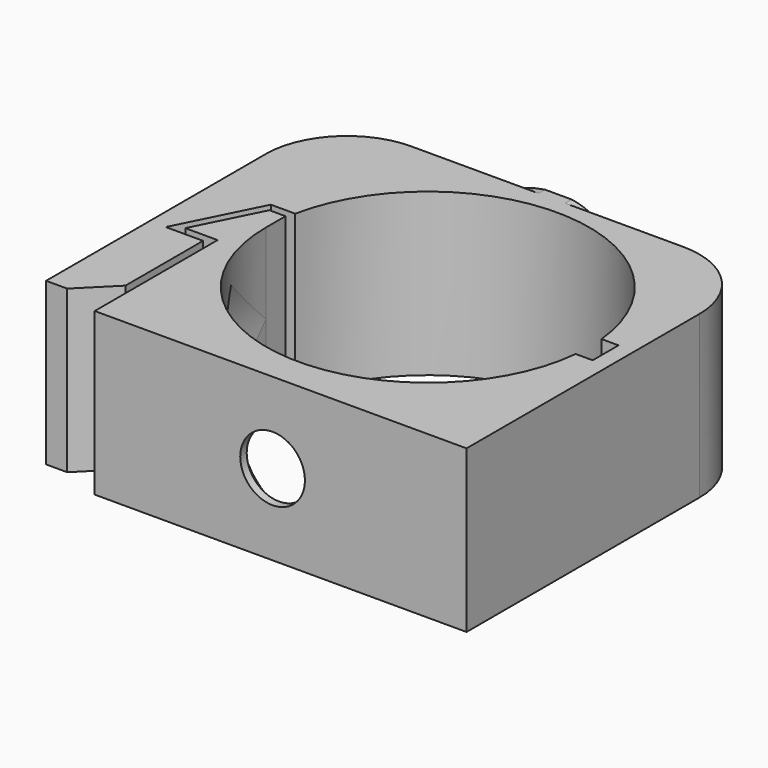
from build123d import *

# Parameters (mm, degrees)
F1_DEPTH = 5
F4_SIZE  = 2
F5_R     = 5
F6_R     = 5
F8_DEPTH = 0.5


with BuildPart() as f1:
    # F0 (on Top) → F1 (new body, symmetric)
    with BuildSketch(Plane.XY):
        with BuildLine():
            ThreePointArc((9.9498743711, -1), (-0.5006277506, -9.9874607311), (-10, 0))
            Line((-10, 0), (-10, 1.5))
            Line((-10, 1.5), (-11, 1.5))
            Line((-11, 1.5), (-13, -2.5))
            Line((-13, -2.5), (-11, -2.5))
            Line((-11, -2.5), (-11, -12))
            Line((-11, -12), (12, -12))
            Line((12, -12), (12, 11))
            Line((12, 11), (-14.8090169944, 11))
            Line((-14.8090169944, 11), (-14.8090169944, -11))
            Line((-14.8090169944, -11), (-11.5, -11))
            Line((-11.5, -11), (-11.5, -3))
            Line((-11.5, -3), (-13.8090169944, -3))
            Line((-13.8090169944, -3), (-11.3090169944, 2))
            Line((-11.3090169944, 2), (-9.7979589711, 2))
            ThreePointArc((-9.7979589711, 2), (0.5057366629, 9.9872033337), (9.9498743711, 1))
            Line((9.9498743711, 1), (11, 1))
            Line((11, 1), (11, -1))
            Line((11, -1), (9.9498743711, -1))
        make_face()
    extrude(amount=F1_DEPTH, both=True)

    # F2 (on Top) → F3 (revolve, cut)
    with BuildSketch(Plane.XY):
        Polygon((0, 0), (-10, 0), (-10, -3.5), (-2, -11.5), (-2, -12), (0, -12), align=None)
    revolve(axis=Axis((0, -5.25, 0), (0, -1, 0)), mode=Mode.SUBTRACT)

    # F4
    f4_edges = [f1.edges().sort_by_distance(p)[0] for p in [
        (-11.5, -11, 0),
    ]]
    chamfer(f4_edges, length=F4_SIZE)

    # F5
    f5_edges = [f1.edges().sort_by_distance(p)[0] for p in [
        (12, 11, 0),
    ]]
    fillet(f5_edges, radius=F5_R)

    # F6
    f6_edges = [f1.edges().sort_by_distance(p)[0] for p in [
        (-14.809017, 11, 0),
    ]]
    fillet(f6_edges, radius=F6_R)

    # F7 (on face) → F8 (join)
    with BuildSketch(Plane(origin=(0, 11, 0), x_dir=(-1, 0, 0), z_dir=(0, 1, 0))):
        with BuildLine():
            add(Edge.make_bspline(
                [(4.1006944444, -2.24609375), (4.1006944444, -3.5894097222), (3.1338975694, -4.3630642361)],
                knots=[0, 0, 0, 1, 1, 1], degree=2))
            add(Edge.make_bspline(
                [(3.5852864583, -0.6087239583), (4.1006944444, -1.2760416667), (4.1006944444, -2.24609375)],
                knots=[0, 0, 0, 1, 1, 1], degree=2))
            add(Edge.make_bspline(
                [(1.6788194444, 0.7248263889), (3.0698784722, 0.05859375), (3.5852864583, -0.6087239583)],
                knots=[0, 0, 0, 1, 1, 1], degree=2))
            add(Edge.make_bspline(
                [(0.3474392361, 1.4192708333), (0.6284722222, 1.2261284722), (1.6788194444, 0.7248263889)],
                knots=[0, 0, 0, 1, 1, 1], degree=2))
            add(Edge.make_bspline(
                [(-0.0627170139, 1.8196614583), (0.06640625, 1.6124131944), (0.3474392361, 1.4192708333)],
                knots=[0, 0, 0, 1, 1, 1], degree=2))
            add(Edge.make_bspline(
                [(-0.1918402778, 2.3046875), (-0.1918402778, 2.0269097222), (-0.0627170139, 1.8196614583)],
                knots=[0, 0, 0, 1, 1, 1], degree=2))
            add(Edge.make_bspline(
                [(0.1271701389, 3.0295138889), (-0.1918402778, 2.7517361111), (-0.1918402778, 2.3046875)],
                knots=[0, 0, 0, 1, 1, 1], degree=2))
            add(Edge.make_bspline(
                [(1.04296875, 3.3072916667), (0.4461805556, 3.3072916667), (0.1271701389, 3.0295138889)],
                knots=[0, 0, 0, 1, 1, 1], degree=2))
            add(Edge.make_bspline(
                [(2.0629340278, 3.1781684028), (1.5442708333, 3.3072916667), (1.04296875, 3.3072916667)],
                knots=[0, 0, 0, 1, 1, 1], degree=2))
            add(Edge.make_bspline(
                [(3.3758680556, 2.7235243056), (2.5815972222, 3.0490451389), (2.0629340278, 3.1781684028)],
                knots=[0, 0, 0, 1, 1, 1], degree=2))
            Line((3.3758680556, 2.7235243056), (4.0529513889, 4.3598090278))
            add(Edge.make_bspline(
                [(2.5848524306, 4.8741319444), (3.2868923611, 4.6918402778), (4.0529513889, 4.3598090278)],
                knots=[0, 0, 0, 1, 1, 1], degree=2))
            add(Edge.make_bspline(
                [(1.9480484116, 5), (2.2733914608, 4.9550058902), (2.5848524306, 4.8741319444)],
                knots=[0.5563486403, 0.5563486403, 0.5563486403, 1, 1, 1], degree=2))
            Line((1.9480484116, 5), (0.2994075141, 5))
            add(Edge.make_bspline(
                [(-1.3550347222, 4.3044704861), (-0.707430669, 4.8504432463), (0.2994075141, 5)],
                knots=[0, 0, 0, 0.7260728655, 0.7260728655, 0.7260728655], degree=2))
            add(Edge.make_bspline(
                [(-2.2469618056, 2.2352430556), (-2.2469618056, 3.5525173611), (-1.3550347222, 4.3044704861)],
                knots=[0, 0, 0, 1, 1, 1], degree=2))
            add(Edge.make_bspline(
                [(-1.9756944444, 1.015625), (-2.2469618056, 1.5386284722), (-2.2469618056, 2.2352430556)],
                knots=[0, 0, 0, 1, 1, 1], degree=2))
            add(Edge.make_bspline(
                [(-1.2497829861, 0.0998263889), (-1.7044270833, 0.4926215278), (-1.9756944444, 1.015625)],
                knots=[0, 0, 0, 1, 1, 1], degree=2))
            add(Edge.make_bspline(
                [(0.1119791667, -0.7204861111), (-0.7951388889, -0.29296875), (-1.2497829861, 0.0998263889)],
                knots=[0, 0, 0, 1, 1, 1], degree=2))
            add(Edge.make_bspline(
                [(1.3977864583, -1.3921440972), (1.08203125, -1.1827256944), (0.1119791667, -0.7204861111)],
                knots=[0, 0, 0, 1, 1, 1], degree=2))
            add(Edge.make_bspline(
                [(1.8763020833, -1.8294270833), (1.7135416667, -1.6015625), (1.3977864583, -1.3921440972)],
                knots=[0, 0, 0, 1, 1, 1], degree=2))
            add(Edge.make_bspline(
                [(2.0390625, -2.3480902778), (2.0390625, -2.0572916667), (1.8763020833, -1.8294270833)],
                knots=[0, 0, 0, 1, 1, 1], degree=2))
            add(Edge.make_bspline(
                [(1.6690538194, -3.134765625), (2.0390625, -2.87109375), (2.0390625, -2.3480902778)],
                knots=[0, 0, 0, 1, 1, 1], degree=2))
            add(Edge.make_bspline(
                [(0.6089409722, -3.3984375), (1.2990451389, -3.3984375), (1.6690538194, -3.134765625)],
                knots=[0, 0, 0, 1, 1, 1], degree=2))
            add(Edge.make_bspline(
                [(-0.6638454861, -3.2161458333), (0.0316840278, -3.3984375), (0.6089409722, -3.3984375)],
                knots=[0, 0, 0, 1, 1, 1], degree=2))
            add(Edge.make_bspline(
                [(-2.3619791667, -2.5846354167), (-1.359375, -3.0338541667), (-0.6638454861, -3.2161458333)],
                knots=[0, 0, 0, 1, 1, 1], degree=2))
            Line((-2.3619791667, -2.5846354167), (-2.3619791667, -4.5377604167))
            add(Edge.make_bspline(
                [(-0.987512741, -5), (-1.7250538132, -4.8505564977), (-2.3619791667, -4.5377604167)],
                knots=[0.477766543, 0.477766543, 0.477766543, 1, 1, 1], degree=2))
            Line((-0.987512741, -5), (1.7597890221, -5))
            add(Edge.make_bspline(
                [(3.1338975694, -4.3630642361), (2.5735213253, -4.8114910174), (1.7597890221, -5)],
                knots=[0, 0, 0, 0.5796214889, 0.5796214889, 0.5796214889], degree=2))
        make_face()
    extrude(amount=F8_DEPTH)


solid = f1.part
